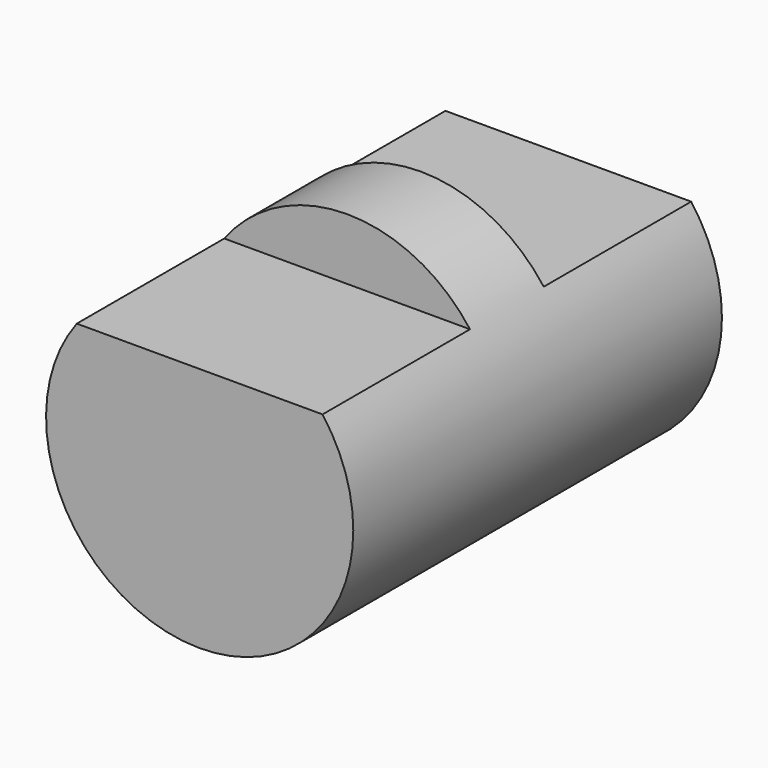
from build123d import *

# Parameters (mm, degrees)
F0_R     = 5
F1_DEPTH = 15
F3_DEPTH = 6
F5_DEPTH = 6


with BuildPart() as f1:
    # F0 (on Front) → F1 (new body)
    with BuildSketch(Plane.XZ):
        Circle(F0_R)
    extrude(amount=F1_DEPTH)

    # F2 (on face) → F3 (cut)
    with BuildSketch(Plane.XZ.offset(15)):
        with BuildLine():
            ThreePointArc((4, 3), (0, 5), (-4, 3))
            Line((-4, 3), (4, 3))
        make_face()
    extrude(amount=-F3_DEPTH, mode=Mode.SUBTRACT)

    # F4 (on face) → F5 (cut)
    with BuildSketch(Plane(origin=(0, 0, 0), x_dir=(-1, 0, 0), z_dir=(0, 1, 0))):
        with BuildLine():
            ThreePointArc((4, 3), (0, 5), (-4, 3))
            Line((-4, 3), (4, 3))
        make_face()
    extrude(amount=-F5_DEPTH, mode=Mode.SUBTRACT)


solid = f1.part
